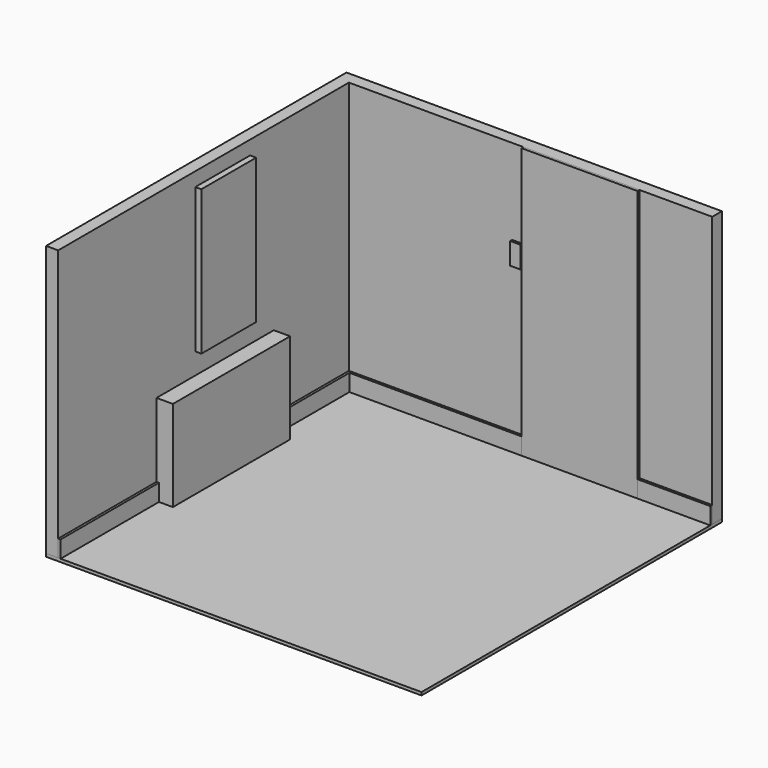
from build123d import *

# Parameters (mm, degrees)
F1_DEPTH  = 2235
F2_W      = 960
F2_H      = 2235
F3_DEPTH  = 20
F4_W      = 1210
F4_H      = 750
F5_DEPTH  = 135
F6_W      = 565
F6_H      = 1195
F7_DEPTH  = 50
F9_DEPTH  = 140
F12_W     = 85
F12_H     = 180
F13_DEPTH = 20
F14_W     = 3100
F14_H     = 3100
F15_DEPTH = 25


with BuildPart() as f1:
    # F0 (on Top) → F1 (new body)
    with BuildSketch(Plane.XY):
        Polygon((-100, -3000), (0, -3000), (0, 0), (3000, 0), (3000, 100), (-100, 100), align=None)
    extrude(amount=F1_DEPTH)


with BuildPart() as f3:
    # F2 (on face) → F3 (new body)
    with BuildSketch(Plane.XZ):
        with Locations((1920, 1117.5)):
            Rectangle(F2_W, F2_H)
    extrude(amount=F3_DEPTH)


with BuildPart() as f5:
    # F4 (on face) → F5 (new body)
    with BuildSketch(Plane.YZ):
        with Locations((-1380, 375)):
            Rectangle(F4_W, F4_H)
    extrude(amount=F5_DEPTH)


with BuildPart() as f7:
    # F6 (on face) → F7 (new body)
    with BuildSketch(Plane.YZ):
        with Locations((-1302.5, 1522.5)):
            Rectangle(F6_W, F6_H)
    extrude(amount=F7_DEPTH)


with BuildPart() as f9:
    # F8 (on Top) → F9 (new body)
    with BuildSketch(Plane.XY):
        Polygon((3000, -20), (3000, 0), (0, 0), (0, -3000), (20, -3000), (20, -20), align=None)
    extrude(amount=F9_DEPTH)

    # F11: cut F3
    add(f3.part, mode=Mode.SUBTRACT)


with BuildPart() as f5_1:
    add(f5.part)

    # F10: cut F9
    add(f9.part, mode=Mode.SUBTRACT)


with BuildPart() as f13:
    # F12 (on face) → F13 (new body, through all)
    with BuildSketch(Plane.XZ):
        with Locations((1389.5, 1440)):
            Rectangle(F12_W, F12_H)
    extrude(amount=F13_DEPTH)


with BuildPart() as f15:
    # F14 (on Top) → F15 (new body)
    with BuildSketch(Plane.XY):
        with Locations((1450, -1450)):
            Rectangle(F14_W, F14_H)
    extrude(amount=-F15_DEPTH)


solid = Compound([f1.part, f3.part, f7.part, f9.part, f5_1.part, f13.part, f15.part])
